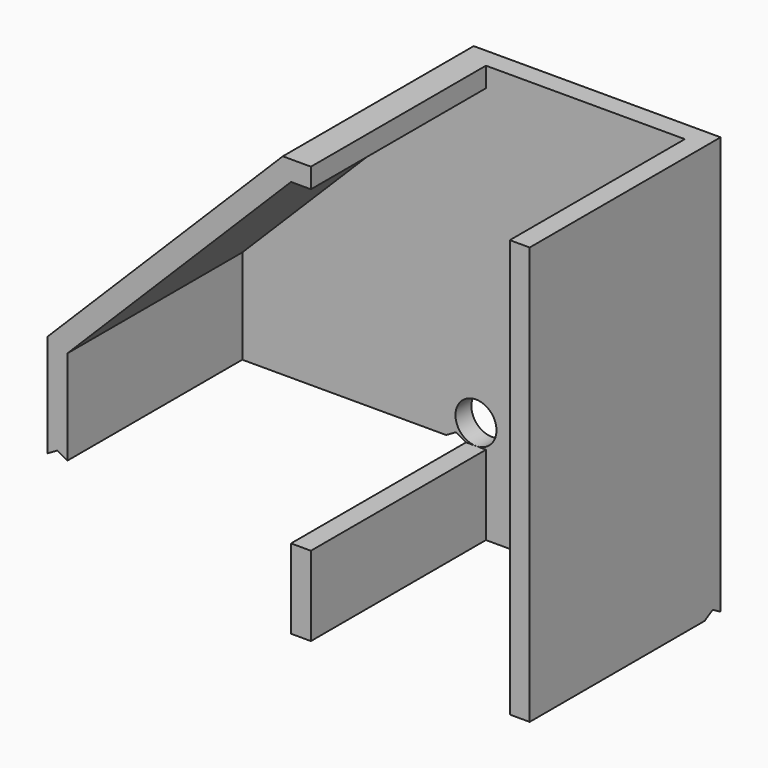
from build123d import *

# Parameters (mm, degrees)
EXTRUDE015_DEPTH = 25
SKETCH011_R      = 4.125
EXTRUDE013_DEPTH = 4
SKETCH010_W      = 4
SKETCH010_H      = 84
SKETCH010_H_2    = 16
EXTRUDE012_DEPTH = 22


with BuildPart() as extrude015:
    # Sketch013 → Extrude015 (new body, symmetric)
    with BuildSketch(Plane.YZ):
        Polygon((-24, 0), (-22, 1.154701), (-20, 0), align=None)
    extrude(amount=EXTRUDE015_DEPTH, both=True)


with BuildPart() as extrude015_1:
    # Extrude015 placement: moved
    add(extrude015.part.moved(Location((0, 44, 0))))


with BuildPart() as cut001:
    # Sketch011 → Extrude013 (new body)
    with BuildSketch(Plane.XZ):
        Polygon((24, 0), (20, 0), (-20, 0), (-24, 0), (-24, 16), (-26, 17.154701), (-28, 16), (-69, 16), (-71, 17.154701), (-73, 16), (-73, 36.656854), (-25.656854, 84), (-20, 84), (20, 84), (24, 84), align=None)
        with Locations((-22, 20.125)):
            Circle(SKETCH011_R, mode=Mode.SUBTRACT)
    extrude(amount=EXTRUDE013_DEPTH)


with BuildPart() as cut001_1:
    # Extrude013 placement: moved
    add(cut001.part.moved(Location((0, 24, 0))))

    # Cut001: cut Extrude015
    add(extrude015_1.part, mode=Mode.SUBTRACT)


with BuildPart() as reject_path:
    # Sketch010 → Extrude012 (new body, symmetric)
    with BuildSketch(Plane.XZ):
        with Locations((22, 42)):
            Rectangle(SKETCH010_W, SKETCH010_H)
        with Locations((-22, 8)):
            Rectangle(SKETCH010_W, SKETCH010_H_2)
        Polygon((-20, 84), (-25.656854, 84), (-73, 36.656854), (-73, 16), (-71, 17.154701), (-69, 16), (-69, 35), (-24, 80), (-20, 80), align=None)
    extrude(amount=EXTRUDE012_DEPTH, both=True)


with BuildPart() as reject_path_1:
    # Extrude012 placement: moved
    add(reject_path.part.moved(Location((0, -2, 0))))

    # Fusion004: union Cut001
    add(cut001_1.part)


solid = reject_path_1.part
